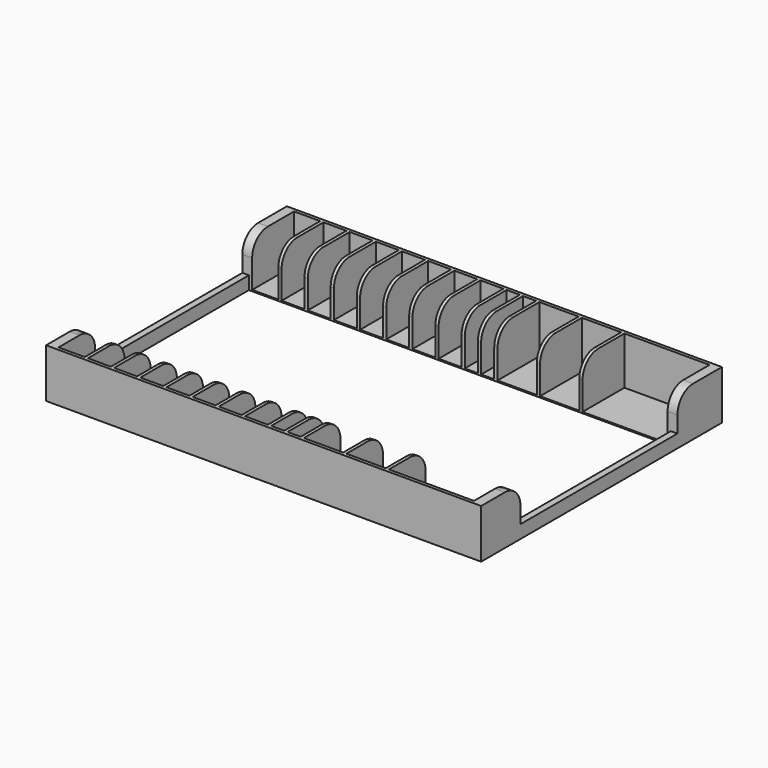
from build123d import *

# Parameters (mm, degrees)
F1_W      = 129
F1_H      = 92
F2_DEPTH  = 15
F4_W      = 129
F4_H      = 60
F5_DEPTH  = 11
F6_R      = 6
F3_W      = 8
F3_H      = 90
F3_W_2    = 7
F3_W_3    = 4
F3_W_4    = 12
F3_W_5    = 26
F7_DEPTH  = 14.6
F8_DEPTH  = 2
F9_DEPTH  = 2
F10_W     = 129
F10_H     = 60
F11_DEPTH = 25


with BuildPart() as f2:
    # F1 (on Top) → F2 (new body)
    with BuildSketch(Plane.XY):
        with Locations((6.5, 1)):
            Rectangle(F1_W, F1_H)
    extrude(amount=F2_DEPTH)

    # F4 (on face) → F5 (cut)
    with BuildSketch(Plane.XY.offset(15)):
        with Locations((6.5, 0)):
            Rectangle(F4_W, F4_H)
    extrude(amount=-F5_DEPTH, mode=Mode.SUBTRACT)

    # F6
    f6_edges = [f2.edges().sort_by_distance(p)[0] for p in [
        (6.5, 30, 15),
        (6.5, -30, 15),
    ]]
    fillet(f6_edges, radius=F6_R)

    # F3 (on face) → F7 (cut)
    with BuildSketch(Plane.XY.offset(15)):
        with Locations((-53, 1)):
            Rectangle(F3_W, F3_H)
        with Locations((-44.5, 1)):
            Rectangle(F3_W_2, F3_H)
        with Locations((-36.5, 1)):
            Rectangle(F3_W_2, F3_H)
        with Locations((-28.5, 1)):
            Rectangle(F3_W_2, F3_H)
        with Locations((-20.5, 1)):
            Rectangle(F3_W_2, F3_H)
        with Locations((-12.5, 1)):
            Rectangle(F3_W_2, F3_H)
        with Locations((-4.5, 1)):
            Rectangle(F3_W_2, F3_H)
        with Locations((3.5, 1)):
            Rectangle(F3_W_2, F3_H)
        with Locations((10, 1)):
            Rectangle(F3_W_3, F3_H)
        with Locations((15, 1)):
            Rectangle(F3_W_3, F3_H)
        with Locations((24, 1)):
            Rectangle(F3_W_4, F3_H)
        with Locations((37, 1)):
            Rectangle(F3_W_4, F3_H)
        with Locations((57, 1)):
            Rectangle(F3_W_5, F3_H)
    extrude(amount=-F7_DEPTH, mode=Mode.SUBTRACT)

    # F8 (add): a face of the model
    f8_faces = [f2.faces().sort_by_distance(p)[0] for p in [
        (-58, -40.5, 14.0678519431),
    ]]
    extrude(f8_faces, amount=F8_DEPTH)

    # F9 (add): a face of the model
    f9_faces = [f2.faces().sort_by_distance(p)[0] for p in [
        (71, 41.5, 14.0678519431),
    ]]
    extrude(f9_faces, amount=F9_DEPTH)

    # F10 (on face) → F11 (cut)
    with BuildSketch(Plane(origin=(0, 0, 0), x_dir=(1, 0, 0), z_dir=(0, 0, -1))):
        with Locations((6.5, 0)):
            Rectangle(F10_W, F10_H)
    extrude(amount=-F11_DEPTH, mode=Mode.SUBTRACT)


solid = f2.part
